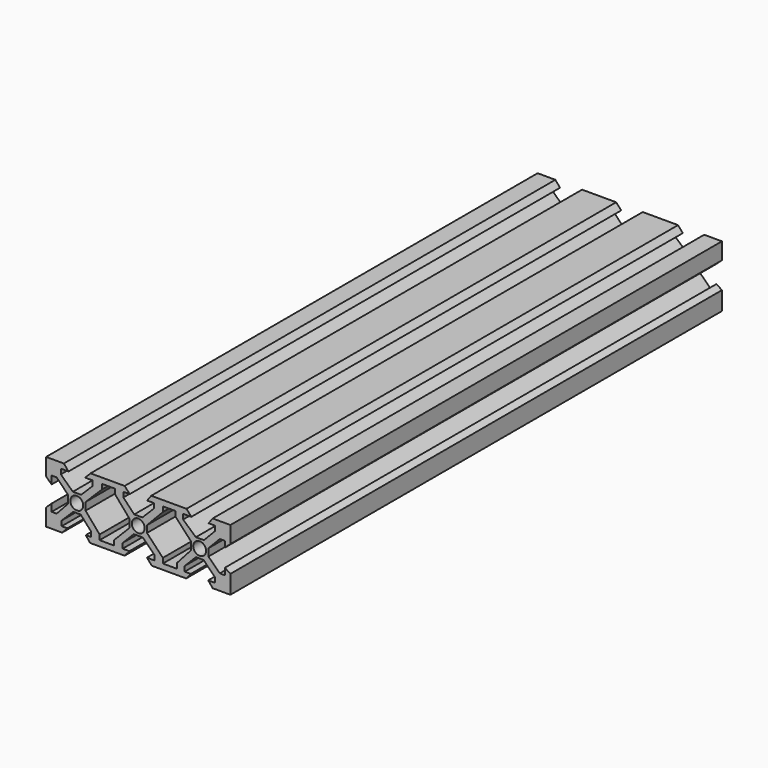
from build123d import *

# Parameters (mm, degrees)
F0_R     = 2.1
F0_W     = 2.462149
F0_H     = 1.64
F0_W_2   = 2.954578
F0_W_3   = 2.554638
F0_W_4   = 2.751813
F0_W_5   = 2.700622
F0_W_6   = 3.026464
F0_W_7   = 2.722847
F0_W_8   = 2.821042
F1_DEPTH = 200


with BuildPart() as f1:
    # F0 (on Front) → F1 (new body)
    with BuildSketch(Plane.XZ):
        Polygon((30, 4.555675), (30, 10), (24.22707, 10), (22.920883, 8.2), (24.930604, 8.2), (28.2, 8.2), (28.2, 4.884325), (28.2, 2.928185), align=None)
        Polygon((28.2, 8.2), (24.930604, 8.2), (24.930604, 6.56), (26.56, 6.56), (26.56, 4.884325), (28.2, 4.884325), align=None)
        Polygon((26.56, 6.56), (24.930604, 6.56), (21.376314, 2.85), (22.85, 2.85), (22.85, 1.029287), (26.56, 4.884325), align=None)
        Polygon((28.2, -4.97699), (26.56, -4.97699), (26.56, -6.56), (24.907887, -6.56), (24.907887, -8.2), (28.2, -8.2), align=None)
        Polygon((28.2, -2.827582), (28.2, -4.97699), (28.2, -8.2), (24.907887, -8.2), (22.780269, -8.2), (24.227049, -10), (30, -10), (30, -3.998783), align=None)
        Polygon((26.56, -4.97699), (22.85, -1.368018), (22.85, -2.85), (21.271573, -2.85), (24.907887, -6.56), (26.56, -6.56), align=None)
        Polygon((22.85, 2.85), (21.376314, 2.85), (18.752582, 2.85), (17.15, 2.85), (17.15, 1.181537), (17.15, -1.454411), (17.15, -2.85), (18.781548, -2.85), (21.271573, -2.85), (22.85, -2.85), (22.85, -1.368018), (22.85, 1.029287), align=None)
        with Locations((20, 0)):
            Circle(F0_R, mode=Mode.SUBTRACT)
        Polygon((17.15, 2.85), (18.752582, 2.85), (14.610378, 6.56), (12.148229, 6.56), (17.15, 1.181537), align=None)
        with Locations((13.379303, 7.38)):
            Rectangle(F0_W, F0_H)
        Polygon((12.148229, 8.2), (14.610378, 8.2), (17.26873, 8.2), (15.720541, 10), (4.219369, 10), (2.896034, 8.2), (5.051448, 8.2), (8.006026, 8.2), align=None)
        with Locations((6.528737, 7.38)):
            Rectangle(F0_W_2, F0_H)
        Polygon((2.85, 1.123604), (8.006026, 6.56), (5.051448, 6.56), (1.343741, 2.85), (2.85, 2.85), align=None)
        Polygon((17.15, -2.85), (17.15, -1.454411), (12.577136, -6.56), (15.131774, -6.56), (18.781548, -2.85), align=None)
        with Locations((13.854455, -7.38)):
            Rectangle(F0_W_3, F0_H)
        Polygon((15.131774, -8.2), (12.577136, -8.2), (8.006026, -8.2), (5.254213, -8.2), (2.818424, -8.2), (4.436373, -10), (15.602568, -10), (17.118241, -8.2), align=None)
        with Locations((6.63012, -7.38)):
            Rectangle(F0_W_4, F0_H)
        Polygon((5.254213, -6.56), (8.006026, -6.56), (2.85, -1.106813), (2.85, -2.85), (1.51754, -2.85), align=None)
        Polygon((2.85, -1.106813), (2.85, 1.123604), (2.85, 2.85), (1.343741, 2.85), (-1.308073, 2.85), (-2.85, 2.85), (-2.85, 1.129449), (-2.85, -1.540485), (-2.85, -2.85), (-1.461518, -2.85), (1.51754, -2.85), (2.85, -2.85), align=None)
        Circle(F0_R, mode=Mode.SUBTRACT)
        Polygon((-2.85, 2.85), (-1.308073, 2.85), (-4.837296, 6.56), (-7.537918, 6.56), (-2.85, 1.129449), align=None)
        with Locations((-6.187607, 7.38)):
            Rectangle(F0_W_5, F0_H)
        Polygon((-7.537918, 8.2), (-4.837296, 8.2), (-2.768134, 8.2), (-4.417359, 10), (-15.527925, 10), (-17.283811, 8.2), (-14.860827, 8.2), (-11.834363, 8.2), align=None)
        with Locations((-13.347595, 7.38)):
            Rectangle(F0_W_6, F0_H)
        Polygon((-17.15, 1.267669), (-11.834363, 6.56), (-14.860827, 6.56), (-18.599909, 2.85), (-17.15, 2.85), align=None)
        Polygon((-5.086812, -6.56), (-1.461518, -2.85), (-2.85, -2.85), (-2.85, -1.540485), (-7.809659, -6.56), align=None)
        with Locations((-6.448236, -7.38)):
            Rectangle(F0_W_7, F0_H)
        Polygon((-2.881428, -8.2), (-5.086812, -8.2), (-7.809659, -8.2), (-12.576681, -8.2), (-15.397723, -8.2), (-17.08678, -8.2), (-15.658125, -10), (-4.417359, -10), align=None)
        with Locations((-13.987202, -7.38)):
            Rectangle(F0_W_8, F0_H)
        Polygon((-15.397723, -6.56), (-12.576681, -6.56), (-17.15, -1.227868), (-17.15, -2.85), (-18.736489, -2.85), align=None)
        Polygon((-17.15, -1.227868), (-17.15, 1.267669), (-17.15, 2.85), (-18.599909, 2.85), (-21.29855, 2.85), (-22.85, 2.85), (-22.85, 1.455018), (-22.85, -1.113568), (-22.85, -2.85), (-21.168495, -2.85), (-18.736489, -2.85), (-17.15, -2.85), align=None)
        with Locations((-20, 0)):
            Circle(F0_R, mode=Mode.SUBTRACT)
        Polygon((-22.85, 2.85), (-21.29855, 2.85), (-25.195252, 6.56), (-26.56, 6.56), (-26.56, 5.266924), (-22.85, 1.455018), align=None)
        Polygon((-24.907576, -6.56), (-21.168495, -2.85), (-22.85, -2.85), (-22.85, -1.113568), (-26.56, -5.145273), (-26.56, -6.56), align=None)
        Polygon((-26.56, 6.56), (-25.195252, 6.56), (-25.195252, 8.2), (-28.2, 8.2), (-28.2, 5.266924), (-26.56, 5.266924), align=None)
        Polygon((-28.2, 8.2), (-25.195252, 8.2), (-22.697506, 8.2), (-24.213179, 10), (-30, 10), (-30, 4.390912), (-28.2, 2.696034), (-28.2, 5.266924), align=None)
        Polygon((-24.907576, -8.2), (-24.907576, -6.56), (-26.56, -6.56), (-26.56, -5.145273), (-28.2, -5.145273), (-28.2, -8.2), align=None)
        Polygon((-23.055149, -8.2), (-24.907576, -8.2), (-28.2, -8.2), (-28.2, -5.145273), (-28.2, -2.76243), (-30, -4.472366), (-30, -10), (-24.772262, -10), align=None)
    extrude(amount=F1_DEPTH)


solid = f1.part
